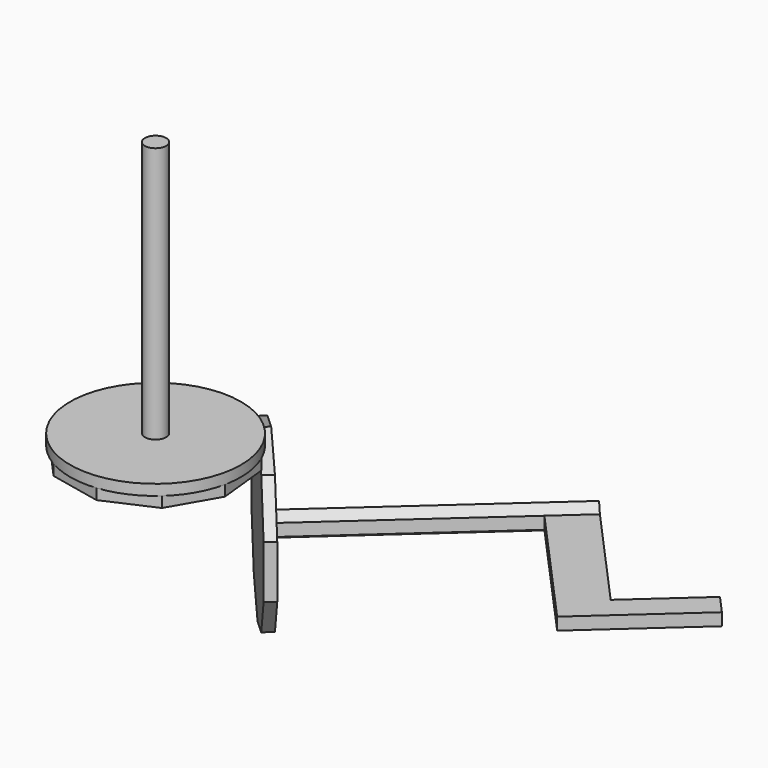
from build123d import *

# Parameters (mm, degrees)
F0_R      = 25.4
F1_DEPTH  = 3.175
F2_R      = 3.175
F3_DEPTH  = 76.2
F5_DEPTH  = 3.175
F7_DEPTH  = 3.175
F9_DEPTH  = 76.2
F10_W     = 12.8941143926
F10_H     = 3.6661742094
F11_DEPTH = 50.8
F12_W     = 7.7148651539
F12_H     = 3.6661742094
F13_DEPTH = 25.4


with BuildPart() as f1:
    # F0 (on Top) → F1 (new body)
    with BuildSketch(Plane.XY):
        Circle(F0_R)
    extrude(amount=F1_DEPTH)

    # F2 (on face) → F3 (join)
    with BuildSketch(Plane.XY.offset(3.175)):
        Circle(F2_R)
    extrude(amount=F3_DEPTH)

    # F4 (on Top) → F5 (join)
    with BuildSketch(Plane.XY):
        Polygon((-24.8449490586, 5.2809569468), (-24.2898981173, 0), (-23.2040546241, -10.3311107341), (-12.7, -21.9970452561), (2.655022967, -25.2608561424), (16.9959174015, -18.8758785671), (24.8449490586, -5.2809569468), (23.2040546241, 10.3311107341), (12.7, 21.9970452561), (-2.655022967, 25.2608561424), (-16.9959174015, 18.8758785671), align=None)
    extrude(amount=-F5_DEPTH)

    # F6 (on face) → F7 (join)
    with BuildSketch(Plane(origin=(17.9520273121, 16.1640779951, 0), x_dir=(-0.6691306064, 0.7431448255, 0), z_dir=(0.7431448255, 0.6691306064, 0))):
        Polygon((22.7787770654, -4.8509683429), (7.8490316571, 0), (-7.0807137511, -4.8509683429), (-16.3078038568, -17.5509683429), (-16.3078038568, -33.2490316571), (-7.0807137511, -45.9490316571), (7.8490316571, -50.8), (22.7787770654, -45.9490316571), (32.005867171, -33.2490316571), (32.005867171, -17.5509683429), align=None)
    extrude(amount=F7_DEPTH)

    # F8 (on face) → F9 (join)
    with BuildSketch(Plane(origin=(20.311512133, 18.2885676703, 0), x_dir=(-0.6691306064, 0.7431448255, 0), z_dir=(0.7431448255, 0.6691306064, 0))):
        Polygon((11.0240316571, -27.2330871047), (11.0240316571, -23.5669128953), (7.8490316571, -21.7338257906), (4.6740316571, -23.5669128953), (4.6740316571, -27.2330871047), (7.8490316571, -29.0661742094), align=None)
    extrude(amount=F9_DEPTH)

    # F10 (on face) → F11 (join)
    with BuildSketch(Plane(origin=(-3.1275376369, 3.4734824401, 0), x_dir=(0.7431448255, 0.6691306064, 0), z_dir=(0.6691306064, -0.7431448255, 0))):
        with Locations((97.0847783176, -25.4)):
            Rectangle(F10_W, F10_H)
    extrude(amount=F11_DEPTH)

    # F12 (on face) → F13 (join)
    with BuildSketch(Plane(origin=(76.9391478343, 69.2763198749, 0), x_dir=(-0.6691306064, 0.7431448255, 0), z_dir=(0.7431448255, 0.6691306064, 0))):
        with Locations((-42.2685357659, -25.4)):
            Rectangle(F12_W, F12_H)
    extrude(amount=F13_DEPTH)


solid = f1.part
